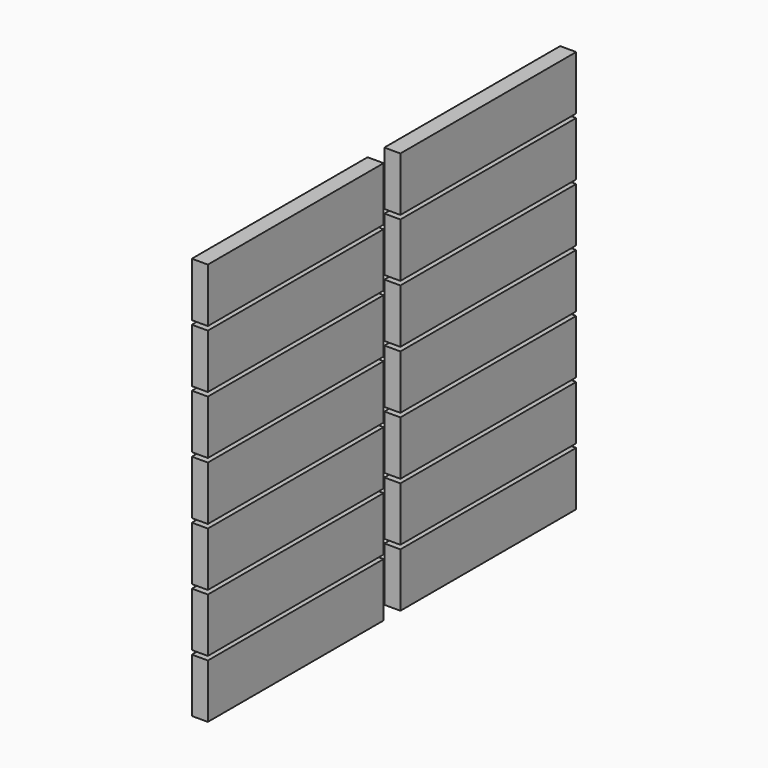
from build123d import *

# Parameters (mm, degrees)
F1_DEPTH = 1


with BuildPart() as f1:
    # F0 (on Right) → F1 (new body)
    with BuildSketch(Plane.YZ):
        Polygon((29.3479, -22.3738), (15.6529, -22.3738), (15.6529, -23.9338), (15.6529, -24.1838), (15.6529, -25.7438), (29.3479, -25.7438), (29.3479, -24.1838), (29.3479, -23.9338), align=None)
        Polygon((29.3479, -22.1238), (29.3479, -20.5638), (29.3479, -20.3138), (29.3479, -18.7538), (15.6529, -18.7538), (15.6529, -20.3138), (15.6529, -20.5638), (15.6529, -22.1238), align=None)
        Polygon((15.6529, -15.1338), (15.6529, -16.6938), (15.6529, -16.9438), (15.6529, -18.5038), (29.3479, -18.5038), (29.3479, -16.6938), (29.3479, -15.1338), align=None)
        Polygon((29.3479, -13.0738), (29.3479, -11.5138), (15.6529, -11.5138), (15.6529, -13.0738), (15.6529, -13.3238), (15.6529, -14.8838), (29.3479, -14.8838), (29.3479, -13.3238), align=None)
        Polygon((29.3479, -9.4538), (29.3479, -7.8938), (15.6529, -7.8938), (15.6529, -9.4538), (15.6529, -9.7038), (15.6529, -11.2638), (29.3479, -11.2638), (29.3479, -9.7038), align=None)
        Polygon((29.3479, -7.6438), (29.3479, -6.0838), (29.3479, -5.8338), (29.3479, -4.2738), (15.6529, -4.2738), (15.6529, -5.8338), (15.6529, -6.0838), (15.6529, -7.6438), align=None)
        Polygon((29.3479, -2.2088), (29.3479, -0.6521), (15.6529, -0.6521), (15.6529, -2.2088), (15.6529, -2.4638), (15.6529, -4.0238), (29.3479, -4.0238), (29.3479, -2.4638), align=None)
        Polygon((14.3471, -0.6521), (0.6521, -0.6521), (0.6521, -2.2088), (0.6521, -2.4638), (0.6521, -4.0238), (14.3471, -4.0238), (14.3471, -2.4638), (14.3471, -2.2088), align=None)
        Polygon((14.3471, -4.2738), (0.6521, -4.2738), (0.6521, -5.8338), (0.6521, -6.0838), (0.6521, -7.6438), (14.3471, -7.6438), (14.3471, -6.0838), (14.3471, -5.8338), align=None)
        Polygon((14.3471, -7.8938), (0.6521, -7.8938), (0.6521, -9.4538), (0.6521, -9.7038), (0.6521, -11.2638), (14.3471, -11.2638), (14.3471, -9.7038), (14.3471, -9.4538), align=None)
        Polygon((14.3471, -11.5138), (0.6521, -11.5138), (0.6521, -13.0738), (0.6521, -13.3238), (0.6521, -14.8838), (14.3471, -14.8838), (14.3471, -13.3238), (14.3471, -13.0738), align=None)
        Polygon((14.3471, -15.1338), (0.6521, -15.1338), (0.6521, -16.6938), (0.6521, -18.5038), (14.3471, -18.5038), (14.3471, -16.9438), (14.3471, -16.6938), align=None)
        Polygon((14.3471, -18.7538), (0.6521, -18.7538), (0.6521, -20.3138), (0.6521, -20.5638), (0.6521, -22.1238), (14.3471, -22.1238), (14.3471, -20.5638), (14.3471, -20.3138), align=None)
        Polygon((14.3471, -22.3738), (0.6521, -22.3738), (0.6521, -23.9338), (0.6521, -24.1838), (0.6521, -25.7438), (14.3471, -25.7438), (14.3471, -24.1838), (14.3471, -23.9338), align=None)
    extrude(amount=F1_DEPTH)


solid = f1.part
